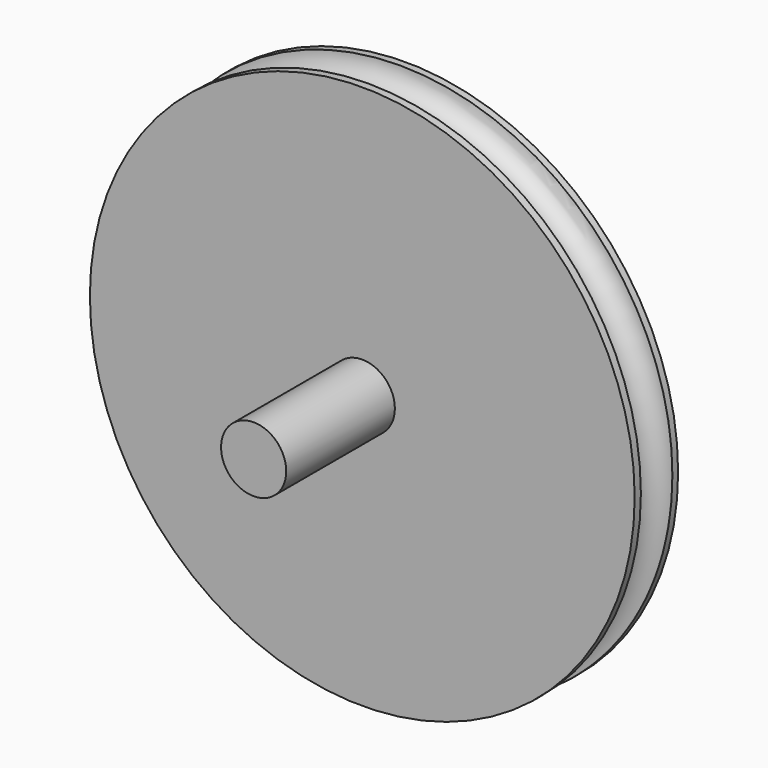
from build123d import *

# Parameters (mm, degrees)
F0_R     = 50.157501
F1_DEPTH = 10
F2_R     = 3.626246
F4_R     = 6
F5_DEPTH = 25
F6_R     = 3.797047
F7_DEPTH = 100


with BuildPart() as f1:
    # F0 (on Front) → F1 (new body)
    with BuildSketch(Plane.XZ):
        Circle(F0_R)
    extrude(amount=-F1_DEPTH)

    # F2 (on Right) → F3 (revolve, cut)
    with BuildSketch(Plane.YZ):
        with Locations((5.051546, 50.064437)):
            Circle(F2_R)
    revolve(axis=Axis((0, -2.255155, 0), (0, 1, 0)), mode=Mode.SUBTRACT)

    # F4 (on face) → F5 (join)
    with BuildSketch(Plane.XZ):
        Circle(F4_R)
    extrude(amount=F5_DEPTH)


with BuildPart() as f7:
    # F6 (on Right) → F7 (new body, symmetric)
    with BuildSketch(Plane.YZ):
        with Locations((0, 74.842192)):
            Circle(F6_R)
    extrude(amount=F7_DEPTH, both=True)


solid = f1.part
